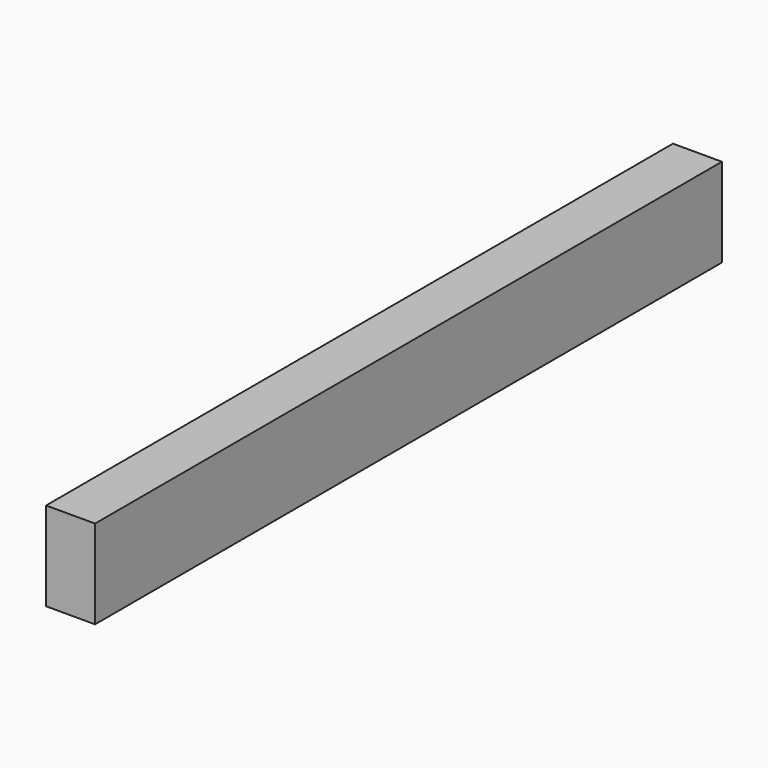
from build123d import *

# Parameters (mm, degrees)
F0_W     = 6.35
F0_H     = 101.6
F1_DEPTH = 11.50874
F2_R     = 1.35255
F3_DEPTH = 3.175


with BuildPart() as f1:
    # F0 (on Top) → F1 (new body)
    with BuildSketch(Plane.XY):
        with Locations((-3.175, -50.8)):
            Rectangle(F0_W, F0_H)
    extrude(amount=F1_DEPTH)

    # F2 (on face) → F3 (cut)
    with BuildSketch(Plane(origin=(0, 0, 0), x_dir=(1, 0, 0), z_dir=(0, 0, -1))):
        with Locations((-3.175, 98.425)):
            Circle(F2_R)
        with Locations((-3.175, 50.8)):
            Circle(F2_R)
        with Locations((-3.175, 3.175)):
            Circle(F2_R)
    extrude(amount=-F3_DEPTH, mode=Mode.SUBTRACT)


solid = f1.part
